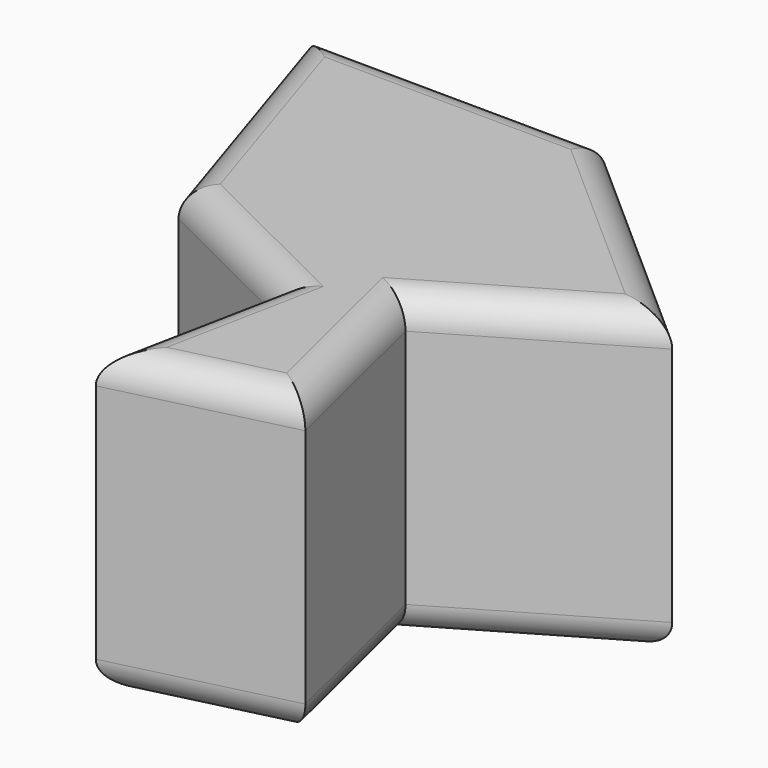
from build123d import *

# Parameters (mm, degrees)
F1_DEPTH = 50
F2_R     = 5


with BuildPart() as f1:
    # F0 (on Top) → F1 (new body)
    with BuildSketch(Plane.XY):
        Polygon((23.147878, -3.475887), (17.193044, -33.475887), (46.331913, -26.339619), (38.98475, 3.660381), (69.194121, 21.335049), (31.733026, 54.451002), (-18.266974, 54.867359), (-3.721395, 9.867359), align=None)
    extrude(amount=F1_DEPTH)

    # F2
    f2_edges = [f1.edges().sort_by_distance(p)[0] for p in [
        (50.463574, 37.893025, 50),
        (6.733026, 54.65918, 50),
        (54.089435, 12.497715, 50),
        (42.658331, -11.339619, 50),
        (31.762479, -29.907753, 50),
        (20.170461, -18.475887, 50),
        (9.713242, 3.195736, 50),
        (-10.994184, 32.367359, 50),
        (50.463574, 37.893025, 0),
        (6.733026, 54.65918, 0),
        (42.658331, -11.339619, 0),
        (-10.994184, 32.367359, 0),
        (9.713242, 3.195736, 0),
        (20.170461, -18.475887, 0),
        (31.762479, -29.907753, 0),
        (54.089435, 12.497715, 0),
    ]]
    fillet(f2_edges, radius=F2_R)


solid = f1.part
